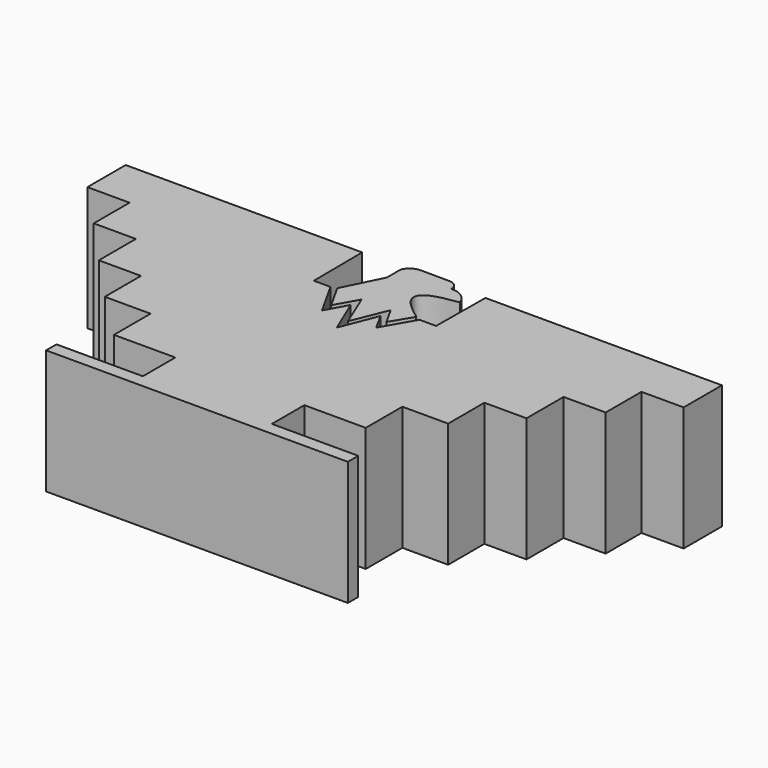
from build123d import *

# Parameters (mm, degrees)
F1_DEPTH = 25.4


with BuildPart() as f1:
    # F0 (on Top) → F1 (new body)
    with BuildSketch(Plane.XY):
        Polygon((-28.348306, -21.61333), (-28.348306, -24.271959), (33.331875, -24.271959), (33.331875, -21.61333), (15.678583, -21.61333), (15.678583, -13.318409), (28.227307, -13.318409), (28.227307, -3.960037), (37.585679, -3.960037), (37.585679, 5.29199), (46.199635, 5.29199), (46.199635, 14.756707), (54.813597, 14.756707), (54.813597, 23.90239), (63.427553, 23.90239), (63.427553, 33.686142), (15.093687, 33.686142), (14.990575, 21.210903), (11.591747, 21.210903), (7.884043, 14.758617), (5.926916, 18.360477), (2.973495, 10.852472), (-0.180228, 18.360477), (-2.572729, 13.997681), (-6.608179, 21.210903), (-10.007006, 21.210903), (-10.110118, 33.686142), (-58.443984, 33.686142), (-58.443984, 23.90239), (-49.830029, 23.90239), (-49.830029, 14.756707), (-41.216066, 14.756707), (-41.216066, 5.29199), (-32.602111, 5.29199), (-32.602111, -3.960037), (-23.243738, -3.960037), (-23.243738, -13.318409), (-10.695014, -13.318409), (-10.695014, -21.61333), align=None)
        with BuildLine():
            Line((-5.471667, 21.532604), (-2.572729, 16.350856))
            Line((-2.572729, 16.350856), (0, 20.928543))
            Line((0, 20.928543), (2.973495, 13.697124))
            Line((2.973495, 13.697124), (5.926916, 20.928543))
            Line((5.926916, 20.928543), (7.944845, 17.321566))
            Line((7.944845, 17.321566), (10.537774, 21.658318))
            add(Edge.make_bspline(
                [(12.850831, 29.9235), (-0.952655, 28.321544), (10.24423, 22.397771), (10.537774, 21.658318)],
                knots=[0, 0, 0, 0, 8.582743, 8.582743, 8.582743, 8.582743], degree=3))
            ThreePointArc((12.850831, 29.9235), (11.369118, 31.999958), (8.915832, 32.698912))
            ThreePointArc((8.915832, 32.698912), (8.360585, 34.067975), (7.000977, 34.645989))
            Line((7.000977, 34.645989), (1.144173, 34.705877))
            ThreePointArc((1.144173, 34.705877), (-0.494247, 34.230998), (-1.598421, 32.930717))
            Line((-1.598421, 32.930717), (-1.598421, 29.382924))
            Line((-1.598421, 29.382924), (-5.471667, 21.532604))
        make_face()
    extrude(amount=F1_DEPTH)


solid = f1.part
